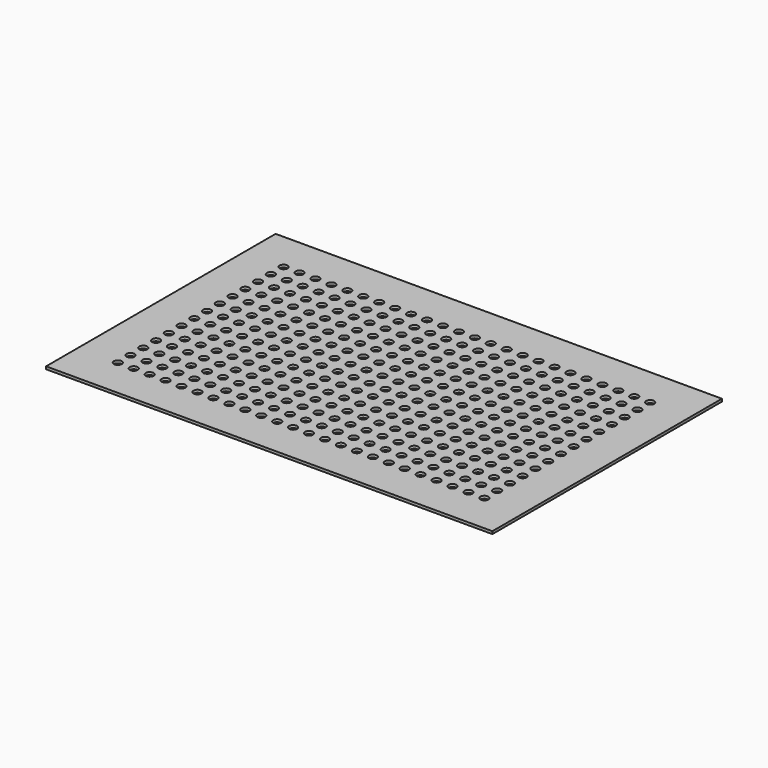
from build123d import *

# Parameters (mm, degrees)
F0_W     = 711.2
F0_H     = 457.2
F0_R     = 6.35
F1_DEPTH = 4.191


with BuildPart() as f1:
    # F0 (on Top) → F1 (new body)
    with BuildSketch(Plane.XY):
        with Locations((4.830646, -6.763823)):
            Rectangle(F0_W, F0_H)
        with Locations((-287.269354, -171.863823)):
            Circle(F0_R, mode=Mode.SUBTRACT)
        with Locations((-261.869354, -171.863823)):
            Circle(F0_R, mode=Mode.SUBTRACT)
        with Locations((-287.269354, -146.463823)):
            Circle(F0_R, mode=Mode.SUBTRACT)
        with Locations((-261.869354, -146.463823)):
            Circle(F0_R, mode=Mode.SUBTRACT)
        with Locations((-236.469354, -171.863823)):
            Circle(F0_R, mode=Mode.SUBTRACT)
        with Locations((-211.069354, -171.863823)):
            Circle(F0_R, mode=Mode.SUBTRACT)
        with Locations((-185.669354, -171.863823)):
            Circle(F0_R, mode=Mode.SUBTRACT)
        with Locations((-236.469354, -146.463823)):
            Circle(F0_R, mode=Mode.SUBTRACT)
        with Locations((-211.069354, -146.463823)):
            Circle(F0_R, mode=Mode.SUBTRACT)
        with Locations((-185.669354, -146.463823)):
            Circle(F0_R, mode=Mode.SUBTRACT)
        with Locations((-160.269354, -171.863823)):
            Circle(F0_R, mode=Mode.SUBTRACT)
        with Locations((-134.869354, -171.863823)):
            Circle(F0_R, mode=Mode.SUBTRACT)
        with Locations((-109.469354, -171.863823)):
            Circle(F0_R, mode=Mode.SUBTRACT)
        with Locations((-84.069354, -171.863823)):
            Circle(F0_R, mode=Mode.SUBTRACT)
        with Locations((-160.269354, -146.463823)):
            Circle(F0_R, mode=Mode.SUBTRACT)
        with Locations((-134.869354, -146.463823)):
            Circle(F0_R, mode=Mode.SUBTRACT)
        with Locations((-109.469354, -146.463823)):
            Circle(F0_R, mode=Mode.SUBTRACT)
        with Locations((-84.069354, -146.463823)):
            Circle(F0_R, mode=Mode.SUBTRACT)
        with Locations((-58.669354, -171.863823)):
            Circle(F0_R, mode=Mode.SUBTRACT)
        with Locations((-33.269354, -171.863823)):
            Circle(F0_R, mode=Mode.SUBTRACT)
        with Locations((-7.869354, -171.863823)):
            Circle(F0_R, mode=Mode.SUBTRACT)
        with Locations((-58.669354, -146.463823)):
            Circle(F0_R, mode=Mode.SUBTRACT)
        with Locations((-33.269354, -146.463823)):
            Circle(F0_R, mode=Mode.SUBTRACT)
        with Locations((-7.869354, -146.463823)):
            Circle(F0_R, mode=Mode.SUBTRACT)
        with Locations((-287.269354, -121.063823)):
            Circle(F0_R, mode=Mode.SUBTRACT)
        with Locations((-261.869354, -121.063823)):
            Circle(F0_R, mode=Mode.SUBTRACT)
        with Locations((-287.269354, -95.663823)):
            Circle(F0_R, mode=Mode.SUBTRACT)
        with Locations((-261.869354, -95.663823)):
            Circle(F0_R, mode=Mode.SUBTRACT)
        with Locations((-287.269354, -70.263823)):
            Circle(F0_R, mode=Mode.SUBTRACT)
        with Locations((-261.869354, -70.263823)):
            Circle(F0_R, mode=Mode.SUBTRACT)
        with Locations((-236.469354, -121.063823)):
            Circle(F0_R, mode=Mode.SUBTRACT)
        with Locations((-236.469354, -95.663823)):
            Circle(F0_R, mode=Mode.SUBTRACT)
        with Locations((-211.069354, -121.063823)):
            Circle(F0_R, mode=Mode.SUBTRACT)
        with Locations((-185.669354, -121.063823)):
            Circle(F0_R, mode=Mode.SUBTRACT)
        with Locations((-211.069354, -95.663823)):
            Circle(F0_R, mode=Mode.SUBTRACT)
        with Locations((-185.669354, -95.663823)):
            Circle(F0_R, mode=Mode.SUBTRACT)
        with Locations((-236.469354, -70.263823)):
            Circle(F0_R, mode=Mode.SUBTRACT)
        with Locations((-211.069354, -70.263823)):
            Circle(F0_R, mode=Mode.SUBTRACT)
        with Locations((-185.669354, -70.263823)):
            Circle(F0_R, mode=Mode.SUBTRACT)
        with Locations((-287.269354, -44.863823)):
            Circle(F0_R, mode=Mode.SUBTRACT)
        with Locations((-261.869354, -44.863823)):
            Circle(F0_R, mode=Mode.SUBTRACT)
        with Locations((-287.269354, -19.463823)):
            Circle(F0_R, mode=Mode.SUBTRACT)
        with Locations((-261.869354, -19.463823)):
            Circle(F0_R, mode=Mode.SUBTRACT)
        with Locations((-236.469354, -44.863823)):
            Circle(F0_R, mode=Mode.SUBTRACT)
        with Locations((-211.069354, -44.863823)):
            Circle(F0_R, mode=Mode.SUBTRACT)
        with Locations((-185.669354, -44.863823)):
            Circle(F0_R, mode=Mode.SUBTRACT)
        with Locations((-236.469354, -19.463823)):
            Circle(F0_R, mode=Mode.SUBTRACT)
        with Locations((-211.069354, -19.463823)):
            Circle(F0_R, mode=Mode.SUBTRACT)
        with Locations((-185.669354, -19.463823)):
            Circle(F0_R, mode=Mode.SUBTRACT)
        with Locations((-160.269354, -121.063823)):
            Circle(F0_R, mode=Mode.SUBTRACT)
        with Locations((-134.869354, -121.063823)):
            Circle(F0_R, mode=Mode.SUBTRACT)
        with Locations((-160.269354, -95.663823)):
            Circle(F0_R, mode=Mode.SUBTRACT)
        with Locations((-134.869354, -95.663823)):
            Circle(F0_R, mode=Mode.SUBTRACT)
        with Locations((-109.469354, -121.063823)):
            Circle(F0_R, mode=Mode.SUBTRACT)
        with Locations((-84.069354, -121.063823)):
            Circle(F0_R, mode=Mode.SUBTRACT)
        with Locations((-109.469354, -95.663823)):
            Circle(F0_R, mode=Mode.SUBTRACT)
        with Locations((-84.069354, -95.663823)):
            Circle(F0_R, mode=Mode.SUBTRACT)
        with Locations((-160.269354, -70.263823)):
            Circle(F0_R, mode=Mode.SUBTRACT)
        with Locations((-134.869354, -70.263823)):
            Circle(F0_R, mode=Mode.SUBTRACT)
        with Locations((-109.469354, -70.263823)):
            Circle(F0_R, mode=Mode.SUBTRACT)
        with Locations((-84.069354, -70.263823)):
            Circle(F0_R, mode=Mode.SUBTRACT)
        with Locations((-58.669354, -121.063823)):
            Circle(F0_R, mode=Mode.SUBTRACT)
        with Locations((-58.669354, -95.663823)):
            Circle(F0_R, mode=Mode.SUBTRACT)
        with Locations((-33.269354, -121.063823)):
            Circle(F0_R, mode=Mode.SUBTRACT)
        with Locations((-7.869354, -121.063823)):
            Circle(F0_R, mode=Mode.SUBTRACT)
        with Locations((-33.269354, -95.663823)):
            Circle(F0_R, mode=Mode.SUBTRACT)
        with Locations((-7.869354, -95.663823)):
            Circle(F0_R, mode=Mode.SUBTRACT)
        with Locations((-58.669354, -70.263823)):
            Circle(F0_R, mode=Mode.SUBTRACT)
        with Locations((-33.269354, -70.263823)):
            Circle(F0_R, mode=Mode.SUBTRACT)
        with Locations((-7.869354, -70.263823)):
            Circle(F0_R, mode=Mode.SUBTRACT)
        with Locations((-160.269354, -44.863823)):
            Circle(F0_R, mode=Mode.SUBTRACT)
        with Locations((-134.869354, -44.863823)):
            Circle(F0_R, mode=Mode.SUBTRACT)
        with Locations((-109.469354, -44.863823)):
            Circle(F0_R, mode=Mode.SUBTRACT)
        with Locations((-84.069354, -44.863823)):
            Circle(F0_R, mode=Mode.SUBTRACT)
        with Locations((-160.269354, -19.463823)):
            Circle(F0_R, mode=Mode.SUBTRACT)
        with Locations((-134.869354, -19.463823)):
            Circle(F0_R, mode=Mode.SUBTRACT)
        with Locations((-109.469354, -19.463823)):
            Circle(F0_R, mode=Mode.SUBTRACT)
        with Locations((-84.069354, -19.463823)):
            Circle(F0_R, mode=Mode.SUBTRACT)
        with Locations((-58.669354, -44.863823)):
            Circle(F0_R, mode=Mode.SUBTRACT)
        with Locations((-33.269354, -44.863823)):
            Circle(F0_R, mode=Mode.SUBTRACT)
        with Locations((-7.869354, -44.863823)):
            Circle(F0_R, mode=Mode.SUBTRACT)
        with Locations((-58.669354, -19.463823)):
            Circle(F0_R, mode=Mode.SUBTRACT)
        with Locations((-33.269354, -19.463823)):
            Circle(F0_R, mode=Mode.SUBTRACT)
        with Locations((-7.869354, -19.463823)):
            Circle(F0_R, mode=Mode.SUBTRACT)
        with Locations((17.530646, -171.863823)):
            Circle(F0_R, mode=Mode.SUBTRACT)
        with Locations((42.930646, -171.863823)):
            Circle(F0_R, mode=Mode.SUBTRACT)
        with Locations((68.330646, -171.863823)):
            Circle(F0_R, mode=Mode.SUBTRACT)
        with Locations((93.730646, -171.863823)):
            Circle(F0_R, mode=Mode.SUBTRACT)
        with Locations((17.530646, -146.463823)):
            Circle(F0_R, mode=Mode.SUBTRACT)
        with Locations((42.930646, -146.463823)):
            Circle(F0_R, mode=Mode.SUBTRACT)
        with Locations((68.330646, -146.463823)):
            Circle(F0_R, mode=Mode.SUBTRACT)
        with Locations((93.730646, -146.463823)):
            Circle(F0_R, mode=Mode.SUBTRACT)
        with Locations((119.130646, -171.863823)):
            Circle(F0_R, mode=Mode.SUBTRACT)
        with Locations((144.530646, -171.863823)):
            Circle(F0_R, mode=Mode.SUBTRACT)
        with Locations((169.930646, -171.863823)):
            Circle(F0_R, mode=Mode.SUBTRACT)
        with Locations((119.130646, -146.463823)):
            Circle(F0_R, mode=Mode.SUBTRACT)
        with Locations((144.530646, -146.463823)):
            Circle(F0_R, mode=Mode.SUBTRACT)
        with Locations((169.930646, -146.463823)):
            Circle(F0_R, mode=Mode.SUBTRACT)
        with Locations((195.330646, -171.863823)):
            Circle(F0_R, mode=Mode.SUBTRACT)
        with Locations((220.730646, -171.863823)):
            Circle(F0_R, mode=Mode.SUBTRACT)
        with Locations((246.130646, -171.863823)):
            Circle(F0_R, mode=Mode.SUBTRACT)
        with Locations((271.530646, -171.863823)):
            Circle(F0_R, mode=Mode.SUBTRACT)
        with Locations((195.330646, -146.463823)):
            Circle(F0_R, mode=Mode.SUBTRACT)
        with Locations((220.730646, -146.463823)):
            Circle(F0_R, mode=Mode.SUBTRACT)
        with Locations((246.130646, -146.463823)):
            Circle(F0_R, mode=Mode.SUBTRACT)
        with Locations((271.530646, -146.463823)):
            Circle(F0_R, mode=Mode.SUBTRACT)
        with Locations((296.930646, -171.863823)):
            Circle(F0_R, mode=Mode.SUBTRACT)
        with Locations((296.930646, -146.463823)):
            Circle(F0_R, mode=Mode.SUBTRACT)
        with Locations((17.530646, -121.063823)):
            Circle(F0_R, mode=Mode.SUBTRACT)
        with Locations((42.930646, -121.063823)):
            Circle(F0_R, mode=Mode.SUBTRACT)
        with Locations((17.530646, -95.663823)):
            Circle(F0_R, mode=Mode.SUBTRACT)
        with Locations((42.930646, -95.663823)):
            Circle(F0_R, mode=Mode.SUBTRACT)
        with Locations((68.330646, -121.063823)):
            Circle(F0_R, mode=Mode.SUBTRACT)
        with Locations((93.730646, -121.063823)):
            Circle(F0_R, mode=Mode.SUBTRACT)
        with Locations((68.330646, -95.663823)):
            Circle(F0_R, mode=Mode.SUBTRACT)
        with Locations((93.730646, -95.663823)):
            Circle(F0_R, mode=Mode.SUBTRACT)
        with Locations((17.530646, -70.263823)):
            Circle(F0_R, mode=Mode.SUBTRACT)
        with Locations((42.930646, -70.263823)):
            Circle(F0_R, mode=Mode.SUBTRACT)
        with Locations((68.330646, -70.263823)):
            Circle(F0_R, mode=Mode.SUBTRACT)
        with Locations((93.730646, -70.263823)):
            Circle(F0_R, mode=Mode.SUBTRACT)
        with Locations((119.130646, -121.063823)):
            Circle(F0_R, mode=Mode.SUBTRACT)
        with Locations((119.130646, -95.663823)):
            Circle(F0_R, mode=Mode.SUBTRACT)
        with Locations((144.530646, -121.063823)):
            Circle(F0_R, mode=Mode.SUBTRACT)
        with Locations((169.930646, -121.063823)):
            Circle(F0_R, mode=Mode.SUBTRACT)
        with Locations((144.530646, -95.663823)):
            Circle(F0_R, mode=Mode.SUBTRACT)
        with Locations((169.930646, -95.663823)):
            Circle(F0_R, mode=Mode.SUBTRACT)
        with Locations((119.130646, -70.263823)):
            Circle(F0_R, mode=Mode.SUBTRACT)
        with Locations((144.530646, -70.263823)):
            Circle(F0_R, mode=Mode.SUBTRACT)
        with Locations((169.930646, -70.263823)):
            Circle(F0_R, mode=Mode.SUBTRACT)
        with Locations((17.530646, -44.863823)):
            Circle(F0_R, mode=Mode.SUBTRACT)
        with Locations((42.930646, -44.863823)):
            Circle(F0_R, mode=Mode.SUBTRACT)
        with Locations((68.330646, -44.863823)):
            Circle(F0_R, mode=Mode.SUBTRACT)
        with Locations((93.730646, -44.863823)):
            Circle(F0_R, mode=Mode.SUBTRACT)
        with Locations((17.530646, -19.463823)):
            Circle(F0_R, mode=Mode.SUBTRACT)
        with Locations((42.930646, -19.463823)):
            Circle(F0_R, mode=Mode.SUBTRACT)
        with Locations((68.330646, -19.463823)):
            Circle(F0_R, mode=Mode.SUBTRACT)
        with Locations((93.730646, -19.463823)):
            Circle(F0_R, mode=Mode.SUBTRACT)
        with Locations((119.130646, -44.863823)):
            Circle(F0_R, mode=Mode.SUBTRACT)
        with Locations((144.530646, -44.863823)):
            Circle(F0_R, mode=Mode.SUBTRACT)
        with Locations((169.930646, -44.863823)):
            Circle(F0_R, mode=Mode.SUBTRACT)
        with Locations((119.130646, -19.463823)):
            Circle(F0_R, mode=Mode.SUBTRACT)
        with Locations((144.530646, -19.463823)):
            Circle(F0_R, mode=Mode.SUBTRACT)
        with Locations((169.930646, -19.463823)):
            Circle(F0_R, mode=Mode.SUBTRACT)
        with Locations((195.330646, -121.063823)):
            Circle(F0_R, mode=Mode.SUBTRACT)
        with Locations((220.730646, -121.063823)):
            Circle(F0_R, mode=Mode.SUBTRACT)
        with Locations((195.330646, -95.663823)):
            Circle(F0_R, mode=Mode.SUBTRACT)
        with Locations((220.730646, -95.663823)):
            Circle(F0_R, mode=Mode.SUBTRACT)
        with Locations((246.130646, -121.063823)):
            Circle(F0_R, mode=Mode.SUBTRACT)
        with Locations((271.530646, -121.063823)):
            Circle(F0_R, mode=Mode.SUBTRACT)
        with Locations((246.130646, -95.663823)):
            Circle(F0_R, mode=Mode.SUBTRACT)
        with Locations((271.530646, -95.663823)):
            Circle(F0_R, mode=Mode.SUBTRACT)
        with Locations((195.330646, -70.263823)):
            Circle(F0_R, mode=Mode.SUBTRACT)
        with Locations((220.730646, -70.263823)):
            Circle(F0_R, mode=Mode.SUBTRACT)
        with Locations((246.130646, -70.263823)):
            Circle(F0_R, mode=Mode.SUBTRACT)
        with Locations((271.530646, -70.263823)):
            Circle(F0_R, mode=Mode.SUBTRACT)
        with Locations((296.930646, -121.063823)):
            Circle(F0_R, mode=Mode.SUBTRACT)
        with Locations((296.930646, -95.663823)):
            Circle(F0_R, mode=Mode.SUBTRACT)
        with Locations((296.930646, -70.263823)):
            Circle(F0_R, mode=Mode.SUBTRACT)
        with Locations((195.330646, -44.863823)):
            Circle(F0_R, mode=Mode.SUBTRACT)
        with Locations((220.730646, -44.863823)):
            Circle(F0_R, mode=Mode.SUBTRACT)
        with Locations((246.130646, -44.863823)):
            Circle(F0_R, mode=Mode.SUBTRACT)
        with Locations((271.530646, -44.863823)):
            Circle(F0_R, mode=Mode.SUBTRACT)
        with Locations((195.330646, -19.463823)):
            Circle(F0_R, mode=Mode.SUBTRACT)
        with Locations((220.730646, -19.463823)):
            Circle(F0_R, mode=Mode.SUBTRACT)
        with Locations((246.130646, -19.463823)):
            Circle(F0_R, mode=Mode.SUBTRACT)
        with Locations((271.530646, -19.463823)):
            Circle(F0_R, mode=Mode.SUBTRACT)
        with Locations((296.930646, -44.863823)):
            Circle(F0_R, mode=Mode.SUBTRACT)
        with Locations((296.930646, -19.463823)):
            Circle(F0_R, mode=Mode.SUBTRACT)
        with Locations((-287.269354, 5.936177)):
            Circle(F0_R, mode=Mode.SUBTRACT)
        with Locations((-261.869354, 5.936177)):
            Circle(F0_R, mode=Mode.SUBTRACT)
        with Locations((-287.269354, 31.336177)):
            Circle(F0_R, mode=Mode.SUBTRACT)
        with Locations((-261.869354, 31.336177)):
            Circle(F0_R, mode=Mode.SUBTRACT)
        with Locations((-236.469354, 5.936177)):
            Circle(F0_R, mode=Mode.SUBTRACT)
        with Locations((-211.069354, 5.936177)):
            Circle(F0_R, mode=Mode.SUBTRACT)
        with Locations((-185.669354, 5.936177)):
            Circle(F0_R, mode=Mode.SUBTRACT)
        with Locations((-236.469354, 31.336177)):
            Circle(F0_R, mode=Mode.SUBTRACT)
        with Locations((-211.069354, 31.336177)):
            Circle(F0_R, mode=Mode.SUBTRACT)
        with Locations((-185.669354, 31.336177)):
            Circle(F0_R, mode=Mode.SUBTRACT)
        with Locations((-287.269354, 56.736177)):
            Circle(F0_R, mode=Mode.SUBTRACT)
        with Locations((-261.869354, 56.736177)):
            Circle(F0_R, mode=Mode.SUBTRACT)
        with Locations((-287.269354, 82.136177)):
            Circle(F0_R, mode=Mode.SUBTRACT)
        with Locations((-261.869354, 82.136177)):
            Circle(F0_R, mode=Mode.SUBTRACT)
        with Locations((-236.469354, 56.736177)):
            Circle(F0_R, mode=Mode.SUBTRACT)
        with Locations((-211.069354, 56.736177)):
            Circle(F0_R, mode=Mode.SUBTRACT)
        with Locations((-185.669354, 56.736177)):
            Circle(F0_R, mode=Mode.SUBTRACT)
        with Locations((-236.469354, 82.136177)):
            Circle(F0_R, mode=Mode.SUBTRACT)
        with Locations((-211.069354, 82.136177)):
            Circle(F0_R, mode=Mode.SUBTRACT)
        with Locations((-185.669354, 82.136177)):
            Circle(F0_R, mode=Mode.SUBTRACT)
        with Locations((-160.269354, 5.936177)):
            Circle(F0_R, mode=Mode.SUBTRACT)
        with Locations((-134.869354, 5.936177)):
            Circle(F0_R, mode=Mode.SUBTRACT)
        with Locations((-109.469354, 5.936177)):
            Circle(F0_R, mode=Mode.SUBTRACT)
        with Locations((-84.069354, 5.936177)):
            Circle(F0_R, mode=Mode.SUBTRACT)
        with Locations((-160.269354, 31.336177)):
            Circle(F0_R, mode=Mode.SUBTRACT)
        with Locations((-134.869354, 31.336177)):
            Circle(F0_R, mode=Mode.SUBTRACT)
        with Locations((-109.469354, 31.336177)):
            Circle(F0_R, mode=Mode.SUBTRACT)
        with Locations((-84.069354, 31.336177)):
            Circle(F0_R, mode=Mode.SUBTRACT)
        with Locations((-58.669354, 5.936177)):
            Circle(F0_R, mode=Mode.SUBTRACT)
        with Locations((-33.269354, 5.936177)):
            Circle(F0_R, mode=Mode.SUBTRACT)
        with Locations((-7.869354, 5.936177)):
            Circle(F0_R, mode=Mode.SUBTRACT)
        with Locations((-58.669354, 31.336177)):
            Circle(F0_R, mode=Mode.SUBTRACT)
        with Locations((-33.269354, 31.336177)):
            Circle(F0_R, mode=Mode.SUBTRACT)
        with Locations((-7.869354, 31.336177)):
            Circle(F0_R, mode=Mode.SUBTRACT)
        with Locations((-160.269354, 56.736177)):
            Circle(F0_R, mode=Mode.SUBTRACT)
        with Locations((-134.869354, 56.736177)):
            Circle(F0_R, mode=Mode.SUBTRACT)
        with Locations((-109.469354, 56.736177)):
            Circle(F0_R, mode=Mode.SUBTRACT)
        with Locations((-84.069354, 56.736177)):
            Circle(F0_R, mode=Mode.SUBTRACT)
        with Locations((-160.269354, 82.136177)):
            Circle(F0_R, mode=Mode.SUBTRACT)
        with Locations((-134.869354, 82.136177)):
            Circle(F0_R, mode=Mode.SUBTRACT)
        with Locations((-109.469354, 82.136177)):
            Circle(F0_R, mode=Mode.SUBTRACT)
        with Locations((-84.069354, 82.136177)):
            Circle(F0_R, mode=Mode.SUBTRACT)
        with Locations((-58.669354, 56.736177)):
            Circle(F0_R, mode=Mode.SUBTRACT)
        with Locations((-33.269354, 56.736177)):
            Circle(F0_R, mode=Mode.SUBTRACT)
        with Locations((-7.869354, 56.736177)):
            Circle(F0_R, mode=Mode.SUBTRACT)
        with Locations((-58.669354, 82.136177)):
            Circle(F0_R, mode=Mode.SUBTRACT)
        with Locations((-33.269354, 82.136177)):
            Circle(F0_R, mode=Mode.SUBTRACT)
        with Locations((-7.869354, 82.136177)):
            Circle(F0_R, mode=Mode.SUBTRACT)
        with Locations((-287.269354, 107.536177)):
            Circle(F0_R, mode=Mode.SUBTRACT)
        with Locations((-261.869354, 107.536177)):
            Circle(F0_R, mode=Mode.SUBTRACT)
        with Locations((-287.269354, 132.936177)):
            Circle(F0_R, mode=Mode.SUBTRACT)
        with Locations((-261.869354, 132.936177)):
            Circle(F0_R, mode=Mode.SUBTRACT)
        with Locations((-287.269354, 158.336177)):
            Circle(F0_R, mode=Mode.SUBTRACT)
        with Locations((-261.869354, 158.336177)):
            Circle(F0_R, mode=Mode.SUBTRACT)
        with Locations((-236.469354, 107.536177)):
            Circle(F0_R, mode=Mode.SUBTRACT)
        with Locations((-236.469354, 132.936177)):
            Circle(F0_R, mode=Mode.SUBTRACT)
        with Locations((-211.069354, 107.536177)):
            Circle(F0_R, mode=Mode.SUBTRACT)
        with Locations((-185.669354, 107.536177)):
            Circle(F0_R, mode=Mode.SUBTRACT)
        with Locations((-211.069354, 132.936177)):
            Circle(F0_R, mode=Mode.SUBTRACT)
        with Locations((-185.669354, 132.936177)):
            Circle(F0_R, mode=Mode.SUBTRACT)
        with Locations((-236.469354, 158.336177)):
            Circle(F0_R, mode=Mode.SUBTRACT)
        with Locations((-211.069354, 158.336177)):
            Circle(F0_R, mode=Mode.SUBTRACT)
        with Locations((-185.669354, 158.336177)):
            Circle(F0_R, mode=Mode.SUBTRACT)
        with Locations((-160.269354, 107.536177)):
            Circle(F0_R, mode=Mode.SUBTRACT)
        with Locations((-134.869354, 107.536177)):
            Circle(F0_R, mode=Mode.SUBTRACT)
        with Locations((-160.269354, 132.936177)):
            Circle(F0_R, mode=Mode.SUBTRACT)
        with Locations((-134.869354, 132.936177)):
            Circle(F0_R, mode=Mode.SUBTRACT)
        with Locations((-109.469354, 107.536177)):
            Circle(F0_R, mode=Mode.SUBTRACT)
        with Locations((-84.069354, 107.536177)):
            Circle(F0_R, mode=Mode.SUBTRACT)
        with Locations((-109.469354, 132.936177)):
            Circle(F0_R, mode=Mode.SUBTRACT)
        with Locations((-84.069354, 132.936177)):
            Circle(F0_R, mode=Mode.SUBTRACT)
        with Locations((-160.269354, 158.336177)):
            Circle(F0_R, mode=Mode.SUBTRACT)
        with Locations((-134.869354, 158.336177)):
            Circle(F0_R, mode=Mode.SUBTRACT)
        with Locations((-109.469354, 158.336177)):
            Circle(F0_R, mode=Mode.SUBTRACT)
        with Locations((-58.669354, 107.536177)):
            Circle(F0_R, mode=Mode.SUBTRACT)
        with Locations((-58.669354, 132.936177)):
            Circle(F0_R, mode=Mode.SUBTRACT)
        with Locations((-33.269354, 107.536177)):
            Circle(F0_R, mode=Mode.SUBTRACT)
        with Locations((-7.869354, 107.536177)):
            Circle(F0_R, mode=Mode.SUBTRACT)
        with Locations((-33.269354, 132.936177)):
            Circle(F0_R, mode=Mode.SUBTRACT)
        with Locations((-7.869354, 132.936177)):
            Circle(F0_R, mode=Mode.SUBTRACT)
        with Locations((-84.069354, 158.336177)):
            Circle(F0_R, mode=Mode.SUBTRACT)
        with Locations((-58.669354, 158.336177)):
            Circle(F0_R, mode=Mode.SUBTRACT)
        with Locations((-33.269354, 158.336177)):
            Circle(F0_R, mode=Mode.SUBTRACT)
        with Locations((-7.869354, 158.336177)):
            Circle(F0_R, mode=Mode.SUBTRACT)
        with Locations((17.530646, 5.936177)):
            Circle(F0_R, mode=Mode.SUBTRACT)
        with Locations((42.930646, 5.936177)):
            Circle(F0_R, mode=Mode.SUBTRACT)
        with Locations((68.330646, 5.936177)):
            Circle(F0_R, mode=Mode.SUBTRACT)
        with Locations((93.730646, 5.936177)):
            Circle(F0_R, mode=Mode.SUBTRACT)
        with Locations((17.530646, 31.336177)):
            Circle(F0_R, mode=Mode.SUBTRACT)
        with Locations((42.930646, 31.336177)):
            Circle(F0_R, mode=Mode.SUBTRACT)
        with Locations((68.330646, 31.336177)):
            Circle(F0_R, mode=Mode.SUBTRACT)
        with Locations((93.730646, 31.336177)):
            Circle(F0_R, mode=Mode.SUBTRACT)
        with Locations((119.130646, 5.936177)):
            Circle(F0_R, mode=Mode.SUBTRACT)
        with Locations((144.530646, 5.936177)):
            Circle(F0_R, mode=Mode.SUBTRACT)
        with Locations((169.930646, 5.936177)):
            Circle(F0_R, mode=Mode.SUBTRACT)
        with Locations((119.130646, 31.336177)):
            Circle(F0_R, mode=Mode.SUBTRACT)
        with Locations((144.530646, 31.336177)):
            Circle(F0_R, mode=Mode.SUBTRACT)
        with Locations((169.930646, 31.336177)):
            Circle(F0_R, mode=Mode.SUBTRACT)
        with Locations((17.530646, 56.736177)):
            Circle(F0_R, mode=Mode.SUBTRACT)
        with Locations((42.930646, 56.736177)):
            Circle(F0_R, mode=Mode.SUBTRACT)
        with Locations((68.330646, 56.736177)):
            Circle(F0_R, mode=Mode.SUBTRACT)
        with Locations((93.730646, 56.736177)):
            Circle(F0_R, mode=Mode.SUBTRACT)
        with Locations((17.530646, 82.136177)):
            Circle(F0_R, mode=Mode.SUBTRACT)
        with Locations((42.930646, 82.136177)):
            Circle(F0_R, mode=Mode.SUBTRACT)
        with Locations((68.330646, 82.136177)):
            Circle(F0_R, mode=Mode.SUBTRACT)
        with Locations((93.730646, 82.136177)):
            Circle(F0_R, mode=Mode.SUBTRACT)
        with Locations((119.130646, 56.736177)):
            Circle(F0_R, mode=Mode.SUBTRACT)
        with Locations((144.530646, 56.736177)):
            Circle(F0_R, mode=Mode.SUBTRACT)
        with Locations((169.930646, 56.736177)):
            Circle(F0_R, mode=Mode.SUBTRACT)
        with Locations((119.130646, 82.136177)):
            Circle(F0_R, mode=Mode.SUBTRACT)
        with Locations((144.530646, 82.136177)):
            Circle(F0_R, mode=Mode.SUBTRACT)
        with Locations((169.930646, 82.136177)):
            Circle(F0_R, mode=Mode.SUBTRACT)
        with Locations((195.330646, 5.936177)):
            Circle(F0_R, mode=Mode.SUBTRACT)
        with Locations((220.730646, 5.936177)):
            Circle(F0_R, mode=Mode.SUBTRACT)
        with Locations((246.130646, 5.936177)):
            Circle(F0_R, mode=Mode.SUBTRACT)
        with Locations((271.530646, 5.936177)):
            Circle(F0_R, mode=Mode.SUBTRACT)
        with Locations((195.330646, 31.336177)):
            Circle(F0_R, mode=Mode.SUBTRACT)
        with Locations((220.730646, 31.336177)):
            Circle(F0_R, mode=Mode.SUBTRACT)
        with Locations((246.130646, 31.336177)):
            Circle(F0_R, mode=Mode.SUBTRACT)
        with Locations((271.530646, 31.336177)):
            Circle(F0_R, mode=Mode.SUBTRACT)
        with Locations((296.930646, 5.936177)):
            Circle(F0_R, mode=Mode.SUBTRACT)
        with Locations((296.930646, 31.336177)):
            Circle(F0_R, mode=Mode.SUBTRACT)
        with Locations((195.330646, 56.736177)):
            Circle(F0_R, mode=Mode.SUBTRACT)
        with Locations((220.730646, 56.736177)):
            Circle(F0_R, mode=Mode.SUBTRACT)
        with Locations((246.130646, 56.736177)):
            Circle(F0_R, mode=Mode.SUBTRACT)
        with Locations((271.530646, 56.736177)):
            Circle(F0_R, mode=Mode.SUBTRACT)
        with Locations((195.330646, 82.136177)):
            Circle(F0_R, mode=Mode.SUBTRACT)
        with Locations((220.730646, 82.136177)):
            Circle(F0_R, mode=Mode.SUBTRACT)
        with Locations((246.130646, 82.136177)):
            Circle(F0_R, mode=Mode.SUBTRACT)
        with Locations((271.530646, 82.136177)):
            Circle(F0_R, mode=Mode.SUBTRACT)
        with Locations((296.930646, 56.736177)):
            Circle(F0_R, mode=Mode.SUBTRACT)
        with Locations((296.930646, 82.136177)):
            Circle(F0_R, mode=Mode.SUBTRACT)
        with Locations((17.530646, 107.536177)):
            Circle(F0_R, mode=Mode.SUBTRACT)
        with Locations((42.930646, 107.536177)):
            Circle(F0_R, mode=Mode.SUBTRACT)
        with Locations((17.530646, 132.936177)):
            Circle(F0_R, mode=Mode.SUBTRACT)
        with Locations((42.930646, 132.936177)):
            Circle(F0_R, mode=Mode.SUBTRACT)
        with Locations((68.330646, 107.536177)):
            Circle(F0_R, mode=Mode.SUBTRACT)
        with Locations((93.730646, 107.536177)):
            Circle(F0_R, mode=Mode.SUBTRACT)
        with Locations((68.330646, 132.936177)):
            Circle(F0_R, mode=Mode.SUBTRACT)
        with Locations((93.730646, 132.936177)):
            Circle(F0_R, mode=Mode.SUBTRACT)
        with Locations((17.530646, 158.336177)):
            Circle(F0_R, mode=Mode.SUBTRACT)
        with Locations((42.930646, 158.336177)):
            Circle(F0_R, mode=Mode.SUBTRACT)
        with Locations((68.330646, 158.336177)):
            Circle(F0_R, mode=Mode.SUBTRACT)
        with Locations((93.730646, 158.336177)):
            Circle(F0_R, mode=Mode.SUBTRACT)
        with Locations((119.130646, 107.536177)):
            Circle(F0_R, mode=Mode.SUBTRACT)
        with Locations((119.130646, 132.936177)):
            Circle(F0_R, mode=Mode.SUBTRACT)
        with Locations((144.530646, 107.536177)):
            Circle(F0_R, mode=Mode.SUBTRACT)
        with Locations((169.930646, 107.536177)):
            Circle(F0_R, mode=Mode.SUBTRACT)
        with Locations((144.530646, 132.936177)):
            Circle(F0_R, mode=Mode.SUBTRACT)
        with Locations((169.930646, 132.936177)):
            Circle(F0_R, mode=Mode.SUBTRACT)
        with Locations((119.130646, 158.336177)):
            Circle(F0_R, mode=Mode.SUBTRACT)
        with Locations((144.530646, 158.336177)):
            Circle(F0_R, mode=Mode.SUBTRACT)
        with Locations((169.930646, 158.336177)):
            Circle(F0_R, mode=Mode.SUBTRACT)
        with Locations((195.330646, 107.536177)):
            Circle(F0_R, mode=Mode.SUBTRACT)
        with Locations((220.730646, 107.536177)):
            Circle(F0_R, mode=Mode.SUBTRACT)
        with Locations((195.330646, 132.936177)):
            Circle(F0_R, mode=Mode.SUBTRACT)
        with Locations((220.730646, 132.936177)):
            Circle(F0_R, mode=Mode.SUBTRACT)
        with Locations((246.130646, 107.536177)):
            Circle(F0_R, mode=Mode.SUBTRACT)
        with Locations((271.530646, 107.536177)):
            Circle(F0_R, mode=Mode.SUBTRACT)
        with Locations((246.130646, 132.936177)):
            Circle(F0_R, mode=Mode.SUBTRACT)
        with Locations((271.530646, 132.936177)):
            Circle(F0_R, mode=Mode.SUBTRACT)
        with Locations((195.330646, 158.336177)):
            Circle(F0_R, mode=Mode.SUBTRACT)
        with Locations((220.730646, 158.336177)):
            Circle(F0_R, mode=Mode.SUBTRACT)
        with Locations((246.130646, 158.336177)):
            Circle(F0_R, mode=Mode.SUBTRACT)
        with Locations((271.530646, 158.336177)):
            Circle(F0_R, mode=Mode.SUBTRACT)
        with Locations((296.930646, 107.536177)):
            Circle(F0_R, mode=Mode.SUBTRACT)
        with Locations((296.930646, 132.936177)):
            Circle(F0_R, mode=Mode.SUBTRACT)
        with Locations((296.930646, 158.336177)):
            Circle(F0_R, mode=Mode.SUBTRACT)
    extrude(amount=F1_DEPTH)


solid = f1.part
